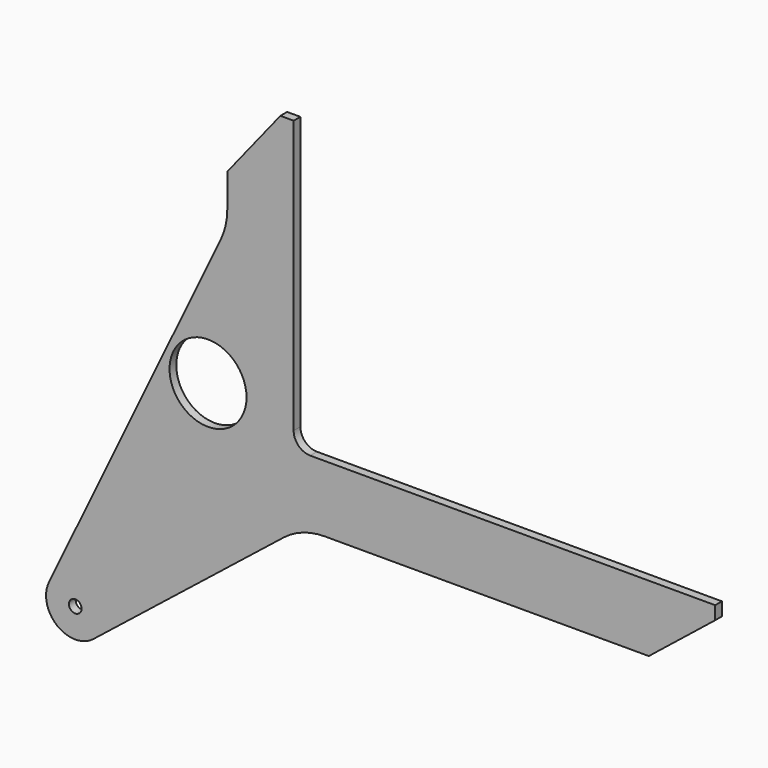
from build123d import *

# Parameters (mm, degrees)
F0_R     = 9.525
F0_R_2   = 58
F1_DEPTH = 6.35


with BuildPart() as f1:
    # F0 (on Front) → F1 (new body, symmetric)
    with BuildSketch(Plane.XZ):
        with BuildLine():
            Line((19.136, 196.692939), (-239.65984, -341.944893))
            ThreePointArc((-239.65984, -341.944893), (-227.442556, -395.393402), (-172.615527, -395.439667))
            Line((-172.615527, -395.439667), (113.762562, -167.72803))
            ThreePointArc((113.762562, -167.72803), (143.039395, -151.588144), (176, -146))
            Line((176, -146), (664, -146))
            Line((664, -146), (764, -66))
            Line((764, -66), (764, -46))
            Line((764, -46), (154, -46))
            ThreePointArc((154, -46), (136.32233, -38.67767), (129, -21))
            Line((129, -21), (129, 390))
            Line((129, 390), (109, 390))
            Line((109, 390), (29, 290))
            Line((29, 290), (29, 240))
            ThreePointArc((29, 240), (26.50282, 217.791893), (19.136, 196.692939))
        make_face()
        with Locations((-200, -361)):
            Circle(F0_R, mode=Mode.SUBTRACT)
        Circle(F0_R_2, mode=Mode.SUBTRACT)
    extrude(amount=F1_DEPTH, both=True)


solid = f1.part
